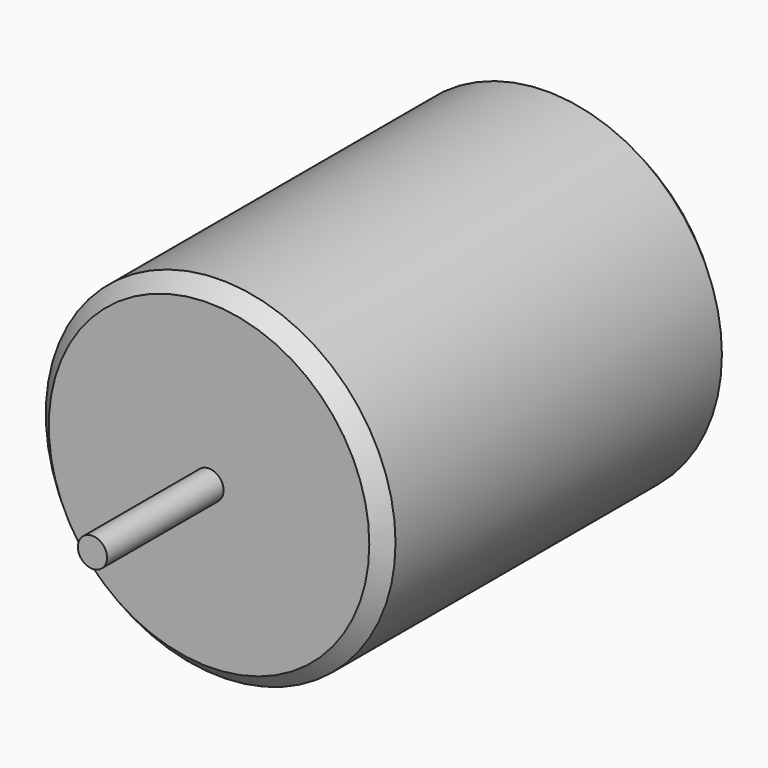
from build123d import *

# Parameters (mm, degrees)
F0_R     = 12
F1_DEPTH = 30
F2_SIZE  = 1
F3_R     = 1
F4_DEPTH = 10


with BuildPart() as f1:
    # F0 (on Front) → F1 (new body)
    with BuildSketch(Plane.XZ):
        Circle(F0_R)
    extrude(amount=F1_DEPTH)

    # F2
    f2_edges = [f1.edges().sort_by_distance(p)[0] for p in [
        (-12, -30, 0),
        (-12, 0, 0),
    ]]
    chamfer(f2_edges, length=F2_SIZE)


with BuildPart() as f4:
    # F3 (on face) → F4 (new body)
    with BuildSketch(Plane.XZ.offset(30)):
        Circle(F3_R)
    extrude(amount=F4_DEPTH)


solid = Compound([f1.part, f4.part])
